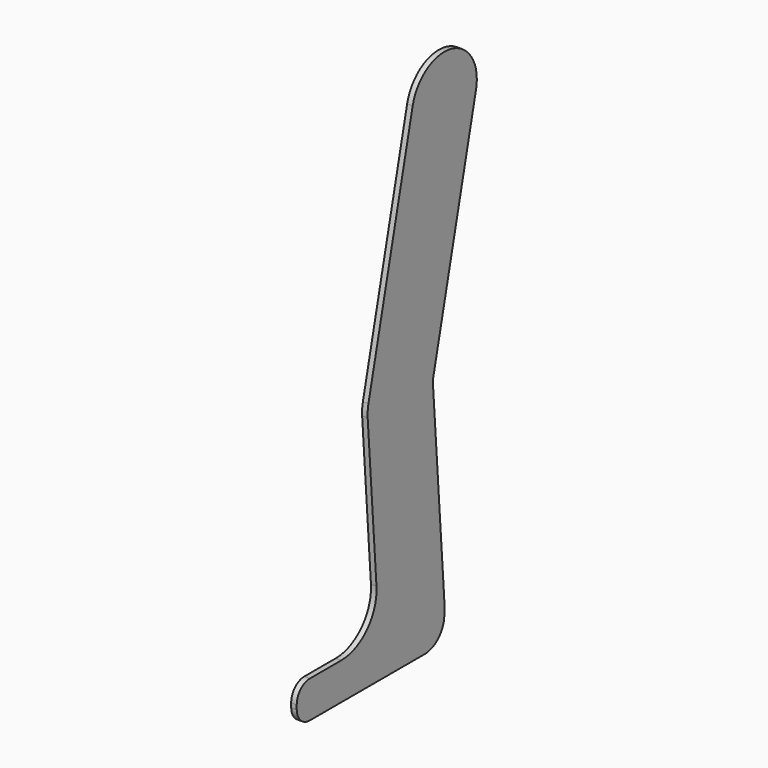
from build123d import *

# Parameters (mm, degrees)
F1_DEPTH = 3
F2_R     = 23.9895203097
F3_R     = 8.8655957544
F4_R     = 13.3788231565


with BuildPart() as f1:
    # F0 (on Right) → F1 (new body)
    with BuildSketch(Plane.YZ):
        with BuildLine():
            ThreePointArc((21.4366063053, 255.0530908526), (21.8586977965, 257.5105561581), (22, 260))
            ThreePointArc((22, 260), (2.4894438419, 281.8586977965), (-21.4366063053, 264.9469091474))
            ThreePointArc((-21.4366063053, 264.9469091474), (-4.9469091474, 238.5633936947), (21.4366063053, 255.0530908526))
        make_face()
        with BuildLine():
            ThreePointArc((21.4366063053, 255.0530908526), (-4.9469091474, 238.5633936947), (-21.4366063053, 264.9469091474))
            Line((-21.4366063053, 264.9469091474), (-51.4366063053, 134.9469091474))
            ThreePointArc((-51.4366063053, 134.9469091474), (-28.2998058213, 151.9342047897), (-8.0571283842, 131.5844195316))
            Line((-8.0571283842, 131.5844195316), (-7.8185739981, 128.2806428715))
            Line((-7.8185739981, 128.2806428715), (21.4366063053, 255.0530908526))
        make_face()
        with BuildLine():
            ThreePointArc((-8.0571283842, 131.5844195316), (-28.2998058213, 151.9342047897), (-51.4366063053, 134.9469091474))
            ThreePointArc((-51.4366063053, 134.9469091474), (-51.9342047897, 131.7001941787), (-51.9428716158, 128.4155804684))
            ThreePointArc((-51.9428716158, 128.4155804684), (-31.7001941787, 108.0657952103), (-8.5633936947, 125.0530908526))
            ThreePointArc((-8.5633936947, 125.0530908526), (-8.1413022035, 127.5105561581), (-8, 130))
            ThreePointArc((-8, 130), (-8.0142867349, 130.7927245588), (-8.0571283842, 131.5844195316))
        make_face()
        with BuildLine():
            Line((-8.5633936947, 125.0530908526), (-7.8185739981, 128.2806428715))
            Line((-7.8185739981, 128.2806428715), (-8.0571283842, 131.5844195316))
            ThreePointArc((-8.0571283842, 131.5844195316), (-8.0142867349, 130.7927245588), (-8, 130))
            ThreePointArc((-8, 130), (-8.1413022035, 127.5105561581), (-8.5633936947, 125.0530908526))
        make_face()
        with BuildLine():
            Line((0, 20), (-7.8185739981, 128.2806428715))
            Line((-7.8185739981, 128.2806428715), (-8.5633936947, 125.0530908526))
            ThreePointArc((-8.5633936947, 125.0530908526), (-31.7001941787, 108.0657952103), (-51.9428716158, 128.4155804684))
            Line((-51.9428716158, 128.4155804684), (-44.1145542365, 20))
            Line((-44.1145542365, 20), (0, 20))
        make_face()
        Polygon((0, 0), (0, 20), (-44.1145542365, 20), (-100, 20), (-100, 0), align=None)
    extrude(amount=F1_DEPTH)

    # F2
    f2_edges = [f1.edges().sort_by_distance(p)[0] for p in [
        (1.5, -44.114554, 20),
    ]]
    fillet(f2_edges, radius=F2_R)

    # F3
    f3_edges = [f1.edges().sort_by_distance(p)[0] for p in [
        (1.5, -100, 20),
        (1.5, -100, 0),
    ]]
    fillet(f3_edges, radius=F3_R)

    # F4
    f4_edges = [f1.edges().sort_by_distance(p)[0] for p in [
        (1.5, 0, 0),
    ]]
    fillet(f4_edges, radius=F4_R)


solid = f1.part
